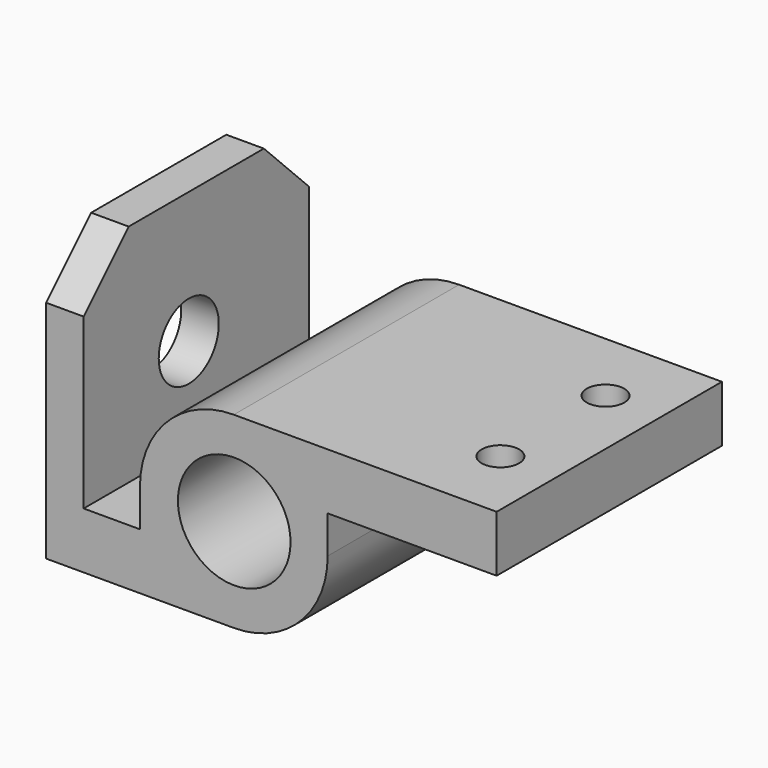
from build123d import *

# Parameters (mm, degrees)
F0_R     = 15
F1_DEPTH = 75
F2_R     = 5
F3_DEPTH = 25
F4_R     = 10
F5_DEPTH = 25


with BuildPart() as f1:
    # F0 (on Front) → F1 (new body)
    with BuildSketch(Plane.XZ):
        with BuildLine():
            Line((80.721744, 24.356214), (80.721744, 39.356214))
            Line((80.721744, 39.356214), (10.721744, 39.356214))
            ThreePointArc((10.721744, 39.356214), (-6.955925, 32.033883), (-14.278256, 14.356214))
            Line((-14.278256, 14.356214), (-14.278256, 4.356214))
            Line((-14.278256, 4.356214), (-29.278256, 4.356214))
            Line((-29.278256, 4.356214), (-29.278256, 64.356214))
            Line((-29.278256, 64.356214), (-39.278256, 64.356214))
            Line((-39.278256, 64.356214), (-39.278256, -10.643786))
            Line((-39.278256, -10.643786), (10.721744, -10.643786))
            ThreePointArc((10.721744, -10.643786), (28.399414, -3.321456), (35.721744, 14.356214))
            Line((35.721744, 14.356214), (35.721744, 24.356214))
            Line((35.721744, 24.356214), (80.721744, 24.356214))
        make_face()
        with Locations((10.833075, 14.356214)):
            Circle(F0_R, mode=Mode.SUBTRACT)
    extrude(amount=F1_DEPTH)

    # F2 (on face) → F3 (cut)
    with BuildSketch(Plane.XY.offset(39.356214)):
        with Locations((65.721744, -20)):
            Circle(F2_R)
        with Locations((65.721744, -55)):
            Circle(F2_R)
    extrude(amount=-F3_DEPTH, mode=Mode.SUBTRACT)

    # F4 (on face) → F5 (cut)
    with BuildSketch(Plane(origin=(-39.278256, 0, 0), x_dir=(0, -1, 0), z_dir=(-1, 0, 0))):
        Polygon((0, 49.356214), (15, 64.356214), (0, 64.356214), align=None)
        Polygon((75, 64.356214), (60, 64.356214), (75, 49.356214), align=None)
        with Locations((40, 29.356214)):
            Circle(F4_R)
    extrude(amount=-F5_DEPTH, mode=Mode.SUBTRACT)


solid = f1.part
